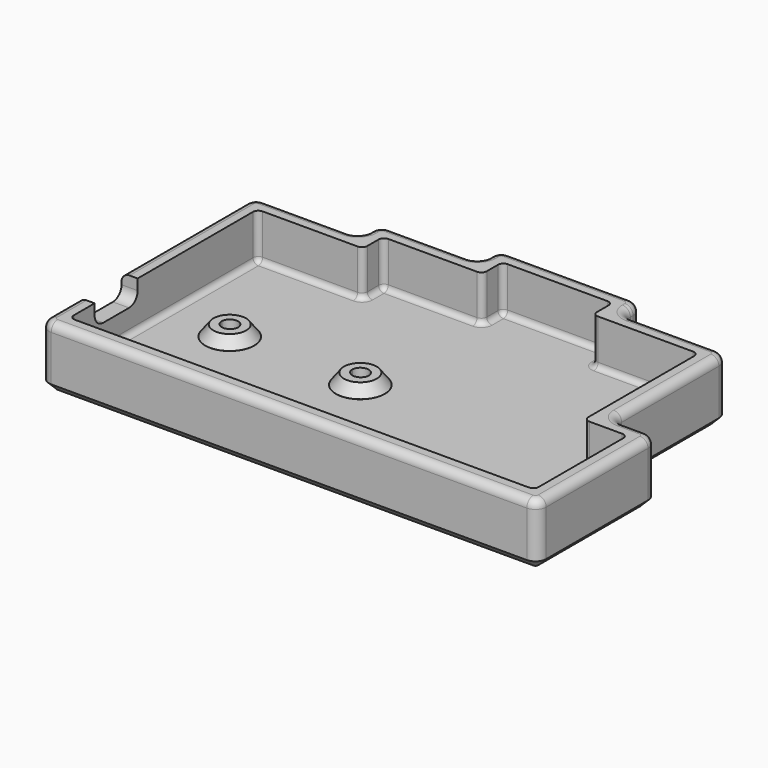
from build123d import *

# Parameters (mm, degrees)
PAD_DEPTH          = 3
SKETCH001_R        = 2.75
PAD001_DEPTH       = 2
CHAMFER_SIZE2      = 1.99
CHAMFER_SIZE       = 1
SKETCH002_R        = 1.55
POCKET_DEPTH       = 5
FILLET_R           = 1.15625
PAD002_DEPTH       = 11.5
POCKET001_DEPTH    = 8.5
POCKET002_DEPTH    = 97
SKETCH006_R        = 4.55
PAD003_DEPTH       = 2
FILLET001_R        = 1
FILLET002_R        = 2
FILLET003_R        = 1.5
CHAMFER001_SIZE    = 1.5
FILLET004_R        = 1
SKETCH007_R        = 1.55
POCKET003_DEPTH    = 5
CHAMFER002_1_SIZE2 = 1.5
CHAMFER002_1_SIZE  = 1.99
CHAMFER002_2_SIZE2 = 1.5
CHAMFER002_2_SIZE  = 1.99


with BuildPart() as body:
    # Sketch → Pad (new body)
    with BuildSketch(Plane.XY):
        Polygon((0, 0), (0, 41.625), (19.656, 41.625), (19.656, 46.25), (38.156, 46.25), (38.156, 48.563), (56.656, 48.563), (56.656, 46.25), (76.312, 46.25), (76.312, 19.656), (84.406, 19.656), (84.406, 0), align=None)
    extrude(amount=PAD_DEPTH)

    # Sketch001 (on Face14 of Pad) → Pad001 (join)
    with BuildSketch(Plane.XY.offset(3)):
        with Locations((10.657, 21.75)):
            Circle(SKETCH001_R)
        with Locations((34.938, 21.75)):
            Circle(SKETCH001_R)
    extrude(amount=PAD001_DEPTH)

    # Chamfer
    chamfer_edges = [body.edges().sort_by_distance(p)[0] for p in [
        (7.907, 21.75, 3),
        (32.188, 21.75, 3),
    ]]
    chamfer_side = body.faces().sort_by_distance((41.05483, 22.316964, 3))[0]
    chamfer(chamfer_edges, length=CHAMFER_SIZE, length2=CHAMFER_SIZE2, reference=chamfer_side)

    # Sketch002 (on Face19 of Chamfer) → Pocket (cut)
    with BuildSketch(Plane.XY.offset(5)):
        with Locations((10.657, 21.75)):
            Circle(SKETCH002_R)
        with Locations((34.938, 21.75)):
            Circle(SKETCH002_R)
    extrude(amount=-POCKET_DEPTH, mode=Mode.SUBTRACT)

    # Fillet
    fillet_edges = [body.edges().sort_by_distance(p)[0] for p in [
        (84.406, 0, 1.5),
        (84.406, 19.656, 1.5),
        (76.312, 19.656, 1.5),
        (76.312, 46.25, 1.5),
        (56.656, 46.25, 1.5),
        (56.656, 48.563, 1.5),
        (38.156, 48.563, 1.5),
        (19.656, 46.25, 1.5),
        (0, 41.625, 1.5),
        (38.156, 46.25, 1.5),
        (19.656, 41.625, 1.5),
        (0, 0, 1.5),
    ]]
    fillet(fillet_edges, radius=FILLET_R)


with BuildPart() as body001:
    # Sketch003 → Pad002 (new body)
    with BuildSketch(Plane.XY):
        Polygon((-4, -4), (88.406, -4), (88.406, 23.656), (80.312, 23.656), (80.312, 50.25), (60.656, 50.25), (60.656, 54.875), (34.156, 54.875), (34.156, 50.25), (15.656, 50.25), (15.656, 45.625), (-4, 45.625), align=None)
    extrude(amount=PAD002_DEPTH)

    # Sketch004 (on Face14 of Pad002) → Pocket001 (cut)
    with BuildSketch(Plane.XY.offset(11.5)):
        Polygon((-1, 42.625), (18.656, 42.625), (18.656, 47.25), (37.156, 47.25), (37.156, 51.875), (57.656, 51.875), (57.656, 47.25), (77.312, 47.25), (77.312, 20.656), (85.406, 20.656), (85.406, -1), (-1, -1), align=None)
    extrude(amount=-POCKET001_DEPTH, mode=Mode.SUBTRACT)

    # Sketch005 (on Face17 of Pocket001) → Pocket002 (cut)
    with BuildSketch(Plane(origin=(85.406, 0, 0), x_dir=(0, -1, 0), z_dir=(-1, 0, 0))):
        with BuildLine():
            Line((-14.828, 11.5), (-14.828, 9.5))
            ThreePointArc((-14.828, 9.5), (-14.242214, 8.085786), (-12.828, 7.5))
            Line((-12.828, 7.5), (-6.828, 7.5))
            ThreePointArc((-6.828, 7.5), (-5.413786, 8.085786), (-4.828, 9.5))
            Line((-4.828, 11.5), (-4.828, 9.5))
            Line((-4.828, 11.5), (-14.828, 11.5))
        make_face()
    extrude(amount=POCKET002_DEPTH, mode=Mode.SUBTRACT)

    # Sketch006 → Pad003 (join)
    with BuildSketch(Plane.XY.offset(3)):
        with Locations((10.656, 21.655)):
            Circle(SKETCH006_R)
        with Locations((34.937, 21.655)):
            Circle(SKETCH006_R)
    extrude(amount=PAD003_DEPTH)

    # Fillet001
    fillet001_edges = [body001.edges().sort_by_distance(p)[0] for p in [
        (18.656, 42.625, 7.25),
        (-1, 42.625, 7.25),
        (18.656, 47.25, 7.25),
        (37.156, 47.25, 7.25),
        (37.156, 51.875, 7.25),
        (57.656, 47.25, 7.25),
        (77.312, 20.656, 7.25),
        (57.656, 51.875, 7.25),
        (77.312, 47.25, 7.25),
        (85.406, 20.656, 7.25),
        (85.406, -1, 7.25),
        (-1, -1, 7.25),
    ]]
    fillet(fillet001_edges, radius=FILLET001_R)

    # Fillet002
    fillet002_edges = [body001.edges().sort_by_distance(p)[0] for p in [
        (-4, -4, 5.75),
        (88.406, -4, 5.75),
        (88.406, 23.656, 5.75),
        (80.312, 23.656, 5.75),
        (80.312, 50.25, 5.75),
        (60.656, 50.25, 5.75),
        (60.656, 54.875, 5.75),
        (34.156, 54.875, 5.75),
        (15.656, 50.25, 5.75),
        (-4, 45.625, 5.75),
        (34.156, 50.25, 5.75),
        (15.656, 45.625, 5.75),
    ]]
    fillet(fillet002_edges, radius=FILLET002_R)

    # Fillet003
    fillet003_edges = [body001.edges().sort_by_distance(p)[0] for p in [
        (42.203, -4, 11.5),
    ]]
    fillet(fillet003_edges, radius=FILLET003_R)

    # Chamfer001
    chamfer001_edges = [body001.edges().sort_by_distance(p)[0] for p in [
        (42.203, -4, 0),
    ]]
    chamfer(chamfer001_edges, length=CHAMFER001_SIZE)

    # Fillet004
    fillet004_edges = [body001.edges().sort_by_distance(p)[0] for p in [
        (47.406, 51.875, 3),
    ]]
    fillet(fillet004_edges, radius=FILLET004_R)

    # Sketch007 (on Face109 of Fillet004) → Pocket003 (cut)
    with BuildSketch(Plane.XY.offset(5)):
        with Locations((10.656, 21.655)):
            Circle(SKETCH007_R)
        with Locations((34.937, 21.655)):
            Circle(SKETCH007_R)
    extrude(amount=-POCKET003_DEPTH, mode=Mode.SUBTRACT)

    # Chamfer002 1
    chamfer002_1_edges = [body001.edges().sort_by_distance(p)[0] for p in [
        (6.106, 21.655, 5),
    ]]
    chamfer002_1_side = body001.faces().sort_by_distance((6.106, 21.655, 4))[0]
    chamfer(chamfer002_1_edges, length=CHAMFER002_1_SIZE, length2=CHAMFER002_1_SIZE2, reference=chamfer002_1_side)

    # Chamfer002 2
    chamfer002_2_edges = [body001.edges().sort_by_distance(p)[0] for p in [
        (30.387, 21.655, 5),
    ]]
    chamfer002_2_side = body001.faces().sort_by_distance((30.387, 21.655, 4))[0]
    chamfer(chamfer002_2_edges, length=CHAMFER002_2_SIZE, length2=CHAMFER002_2_SIZE2, reference=chamfer002_2_side)


solid = Compound([body.part, body001.part])
